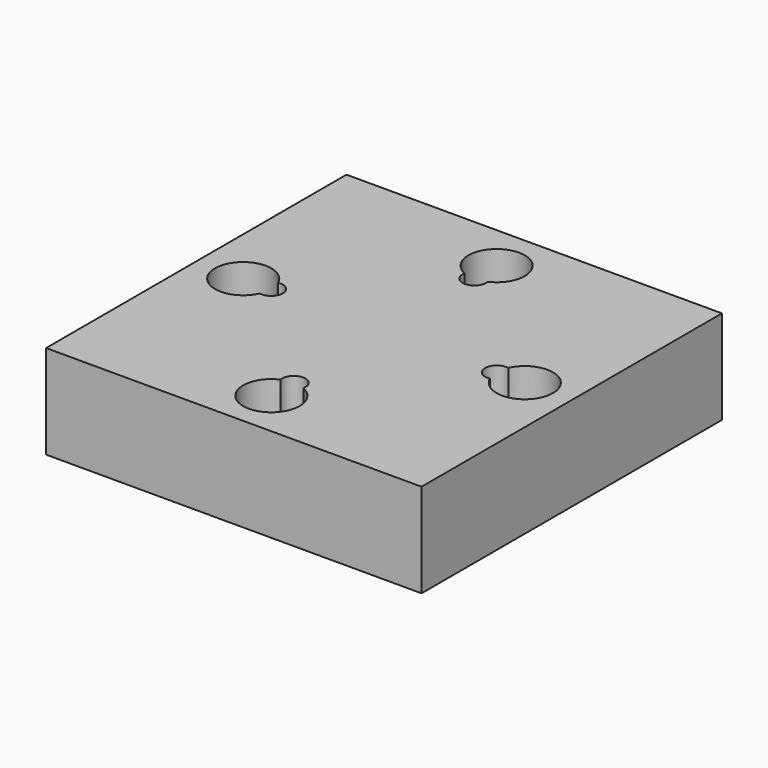
from build123d import *

# Parameters (mm, degrees)
F0_W     = 40
F0_H     = 40
F0_R     = 1.75
F1_DEPTH = 10
F2_R     = 3
F3_DEPTH = 3.5
F5_DEPTH = 3
F6_R     = 1.25
F7_DEPTH = 10.001


with BuildPart() as f1:
    # F0 (on Top) → F1 (new body)
    with BuildSketch(Plane.XY):
        Rectangle(F0_W, F0_H)
        with Locations((0, -15)):
            Circle(F0_R, mode=Mode.SUBTRACT)
        with Locations((-15, 0)):
            Circle(F0_R, mode=Mode.SUBTRACT)
        with Locations((15, 0)):
            Circle(F0_R, mode=Mode.SUBTRACT)
        with Locations((0, 15)):
            Circle(F0_R, mode=Mode.SUBTRACT)
    extrude(amount=F1_DEPTH)

    # F2 (on face) → F3 (cut)
    with BuildSketch(Plane.XY.offset(10)):
        with Locations((-15, 0)):
            Circle(F2_R)
        with Locations((0, 15)):
            Circle(F2_R)
        with Locations((15, 0)):
            Circle(F2_R)
        with Locations((0, -15)):
            Circle(F2_R)
    extrude(amount=-F3_DEPTH, mode=Mode.SUBTRACT)

    # F4 (on face) → F5 (cut)
    with BuildSketch(Plane(origin=(0, 0, 0), x_dir=(1, 0, 0), z_dir=(0, 0, -1))):
        Polygon((4.242641, -18.384776), (18.384776, -4.242641), (-4.242641, 18.384776), (-18.384776, 4.242641), align=None)
    extrude(amount=-F5_DEPTH, mode=Mode.SUBTRACT)

    # F6 (on face) → F7 (cut, through all)
    with BuildSketch(Plane(origin=(0, 0, 0), x_dir=(1, 0, 0), z_dir=(0, 0, -1))):
        with Locations((0, 12.020815)):
            Circle(F6_R)
        with Locations((12.020815, 0)):
            Circle(F6_R)
        with Locations((-12.020815, 0)):
            Circle(F6_R)
        with Locations((0, -12.020815)):
            Circle(F6_R)
    extrude(amount=-F7_DEPTH, mode=Mode.SUBTRACT)


solid = f1.part
